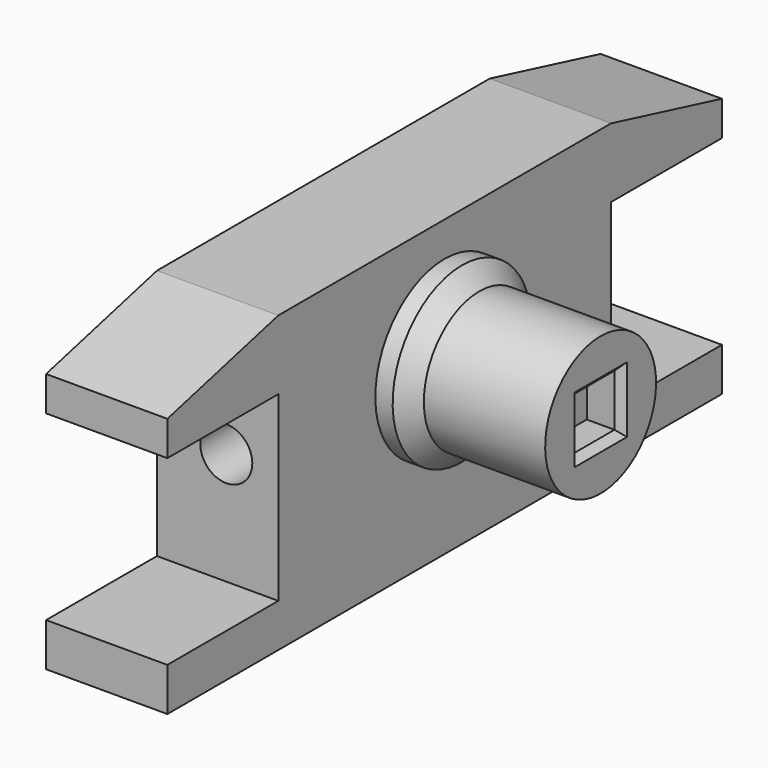
from build123d import *

# Parameters (mm, degrees)
SKETCH153_W             = 7
SKETCH153_H             = 17
PAD051_DEPTH            = 20
SKETCH152_R             = 1.5
POCKET087_DEPTH         = 20
POCKET161_DEPTH         = 10
CHAMFER042_1_SIZE2      = 8
CHAMFER042_1_SIZE       = 2
CHAMFER042_2_SIZE2      = 8
CHAMFER042_2_SIZE       = 2
SKETCH276_W             = 3
SKETCH276_H             = 3
POCKET164_DEPTH         = 2
CHAMFER_SIZE            = 0.4
BODY018_PLACEMENT_ANGLE = 180


with BuildPart() as innerplateend:
    # Sketch153 → Pad051 (new body, symmetric)
    with BuildSketch(Plane.XZ):
        with Locations((39.5, -1.5)):
            Rectangle(SKETCH153_W, SKETCH153_H)
    extrude(amount=PAD051_DEPTH, both=True)

    # Sketch152 → Pocket087 (cut, symmetric)
    with BuildSketch(Plane.XZ):
        with Locations((40, -1)):
            Circle(SKETCH152_R)
    extrude(amount=POCKET087_DEPTH, both=True, mode=Mode.SUBTRACT)

    # Sketch250 → Revolution004 (revolve)
    with BuildSketch(Plane.XZ):
        Polygon((52, 0), (43, 0), (43, 5), (44, 5), (45, 4), (52, 4), align=None)
    revolve(axis=Axis((0, 0, 0), (1, 0, 0)))

    # Sketch267 → Pocket161 (cut)
    with BuildSketch(Plane.XZ.offset(12)):
        Polygon((43, -7.5), (36, -7.499985956), (36, 3), (43, 3), align=None)
    pocket161 = extrude(amount=POCKET161_DEPTH, mode=Mode.SUBTRACT)

    # Mirrored: Pocket161 across XZ
    add(pocket161.mirror(Plane.XZ), mode=Mode.SUBTRACT)

    # Chamfer042 1
    chamfer042_1_edges = [innerplateend.edges().sort_by_distance(p)[0] for p in [
        (39.5, 20, 7),
    ]]
    chamfer042_1_side = innerplateend.faces().sort_by_distance((39.5, 20, 5))[0]
    chamfer(chamfer042_1_edges, length=CHAMFER042_1_SIZE, length2=CHAMFER042_1_SIZE2, reference=chamfer042_1_side)

    # Chamfer042 2
    chamfer042_2_edges = [innerplateend.edges().sort_by_distance(p)[0] for p in [
        (39.5, -20, 7),
    ]]
    chamfer042_2_side = innerplateend.faces().sort_by_distance((39.5, -20, 5))[0]
    chamfer(chamfer042_2_edges, length=CHAMFER042_2_SIZE, length2=CHAMFER042_2_SIZE2, reference=chamfer042_2_side)

    # Sketch276 (on Face21 of Chamfer042) → Pocket164 (cut)
    with BuildSketch(Plane(origin=(52, 0, 0), x_dir=(0, 0, 1), z_dir=(1, 0, 0))):
        Rectangle(SKETCH276_W, SKETCH276_H)
    extrude(amount=-POCKET164_DEPTH, mode=Mode.SUBTRACT)

    # Chamfer
    chamfer_edges = [innerplateend.edges().sort_by_distance(p)[0] for p in [
        (52, 0, 1.5),
        (52, 1.5, 0),
        (52, 0, -1.5),
        (52, -1.5, 0),
    ]]
    chamfer(chamfer_edges, length=CHAMFER_SIZE)


with BuildPart() as innerplateend_1:
    # Body018 placement: moved
    add(innerplateend.part.rotate(Axis((0, 0, 0), (0, 0, 1)), BODY018_PLACEMENT_ANGLE))


with BuildPart() as ref_innerplateend:
    # Part__Mirroring002: instance of InnerPlateEnd
    add(innerplateend_1.part.mirror(Plane(origin=(0, 0, 0), x_dir=(0, -1, 0), z_dir=(1, 0, 0))))


solid = ref_innerplateend.part
